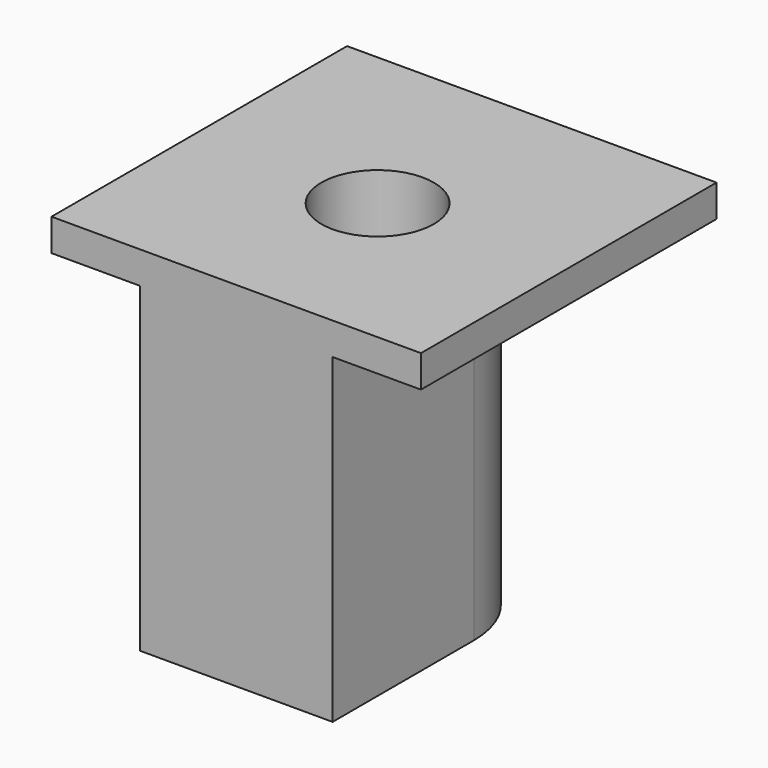
from build123d import *

# Parameters (mm, degrees)
SKETCH022_W     = 11.5
SKETCH022_H     = 11.5
PAD010_DEPTH    = 1
PAD011_DEPTH    = 10
SKETCH024_R     = 1.75
POCKET010_DEPTH = 11.001


with BuildPart() as part:
    # Sketch022 → Pad010 (new body)
    with BuildSketch(Plane.XY):
        with Locations((0, 5.75)):
            Rectangle(SKETCH022_W, SKETCH022_H)
    extrude(amount=PAD010_DEPTH)

    # Sketch023 (on Face5 of Pad010) → Pad011 (join)
    with BuildSketch(Plane(origin=(0, 0, 0), x_dir=(1, 0, 0), z_dir=(0, 0, -1))):
        with BuildLine():
            Line((-3, -5.5), (-3, 0))
            Line((-3, 0), (3, 0))
            Line((3, 0), (3, -5.5))
            ThreePointArc((-3, -5.5), (0, -8.5), (3, -5.5))
        make_face()
    extrude(amount=PAD011_DEPTH)

    # Sketch024 (on Face11 of Pad011) → Pocket010 (cut, through all)
    with BuildSketch(Plane(origin=(0, 0, -10), x_dir=(1, 0, 0), z_dir=(0, 0, -1))):
        with Locations((0, -5.5)):
            Circle(SKETCH024_R)
    extrude(amount=-POCKET010_DEPTH, mode=Mode.SUBTRACT)


with BuildPart() as part_1:
    # Body009 placement: moved
    add(part.part.moved(Location((0, 72.5, 28.2))))


solid = part_1.part
